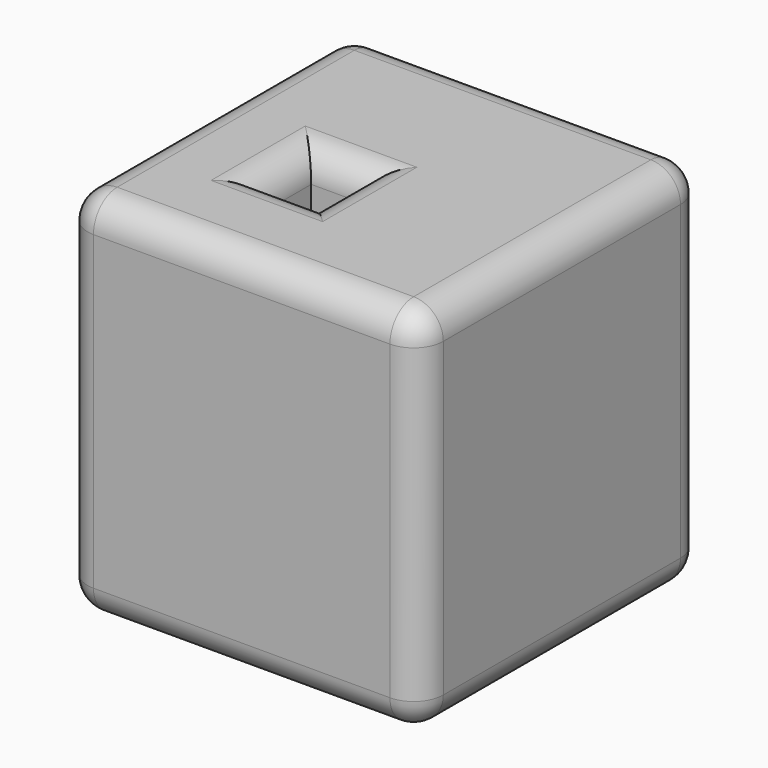
from build123d import *

# Parameters (mm, degrees)
F0_W     = 24
F0_H     = 24
F0_W_2   = 3.526274
F0_H_2   = 3.947003
F1_DEPTH = 25
F2_R     = 2
F3_R     = 2


with BuildPart() as f1:
    # F0 (on Top) → F1 (new body)
    with BuildSketch(Plane.XY):
        with Locations((-32.678599, -18.286714)):
            Rectangle(F0_W, F0_H)
        with Locations((-35.5378, -20.619581)):
            Rectangle(F0_W_2, F0_H_2, mode=Mode.SUBTRACT)
    extrude(amount=F1_DEPTH)

    # F2
    f2_edges = [f1.edges().sort_by_distance(p)[0] for p in [
        (-44.678599, -6.286714, 12.5),
        (-32.678599, -6.286714, 25),
        (-20.678599, -6.286714, 12.5),
        (-32.678599, -6.286714, 0),
        (-44.678599, -30.286714, 12.5),
        (-44.678599, -18.286714, 0),
        (-44.678599, -18.286714, 25),
        (-32.678599, -30.286714, 25),
        (-20.678599, -18.286714, 25),
        (-20.678599, -30.286714, 12.5),
        (-20.678599, -18.286714, 0),
        (-32.678599, -30.286714, 0),
    ]]
    fillet(f2_edges, radius=F2_R)

    # F3
    f3_edges = [f1.edges().sort_by_distance(p)[0] for p in [
        (-33.774663, -20.619581, 25),
        (-35.5378, -22.593083, 0),
        (-35.5378, -18.64608, 25),
        (-37.300937, -20.619581, 25),
        (-35.5378, -22.593083, 25),
        (-37.300937, -20.619581, 0),
        (-35.5378, -18.64608, 0),
        (-33.774663, -20.619581, 0),
    ]]
    fillet(f3_edges, radius=F3_R)


solid = f1.part
